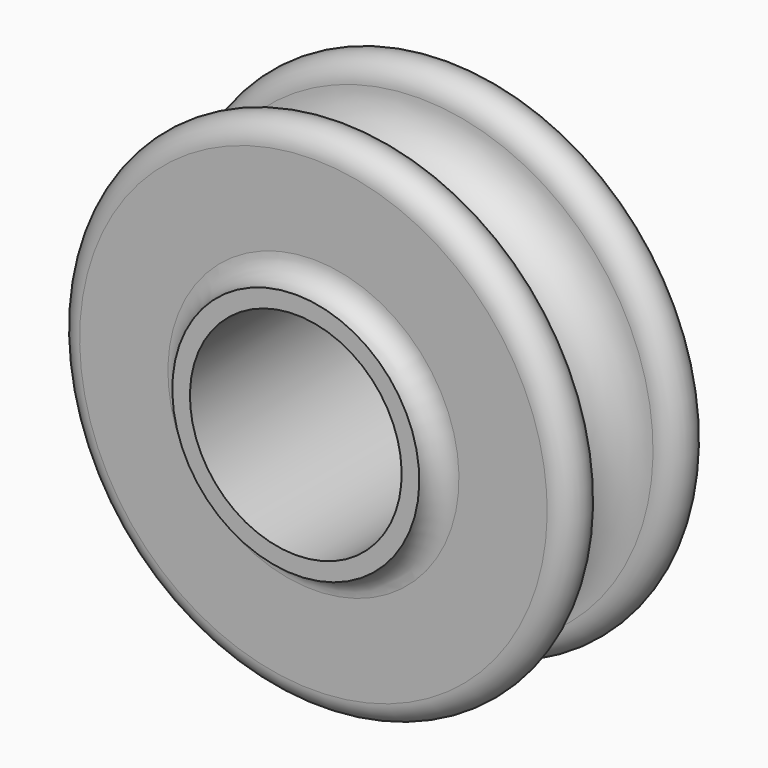
from build123d import *

# Parameters (mm, degrees)
SKETCH001_R  = 12
POCKET_DEPTH = 25.001


with BuildPart() as part:
    # Sketch → Revolution (revolve)
    with BuildSketch(Plane.YZ):
        with BuildLine():
            Line((0, 0), (0, 14))
            ThreePointArc((0, 14), (1.767767, 14.732233), (2.5, 16.5))
            Line((2.5, 16.5), (2.5, 26.5))
            ThreePointArc((7.5, 26.5), (5, 29), (2.5, 26.5))
            ThreePointArc((7.5, 26.5), (12.5, 21.5), (17.5, 26.5))
            ThreePointArc((22.5, 26.5), (20, 29), (17.5, 26.5))
            Line((22.5, 26.5), (22.5, 16.5))
            ThreePointArc((22.5, 16.5), (23.232233, 14.732233), (25, 14))
            Line((25, 14), (25, 0))
            Line((25, 0), (0, 0))
        make_face()
    revolve(axis=Axis((0, 0, 0), (0, 1, 0)))

    # Sketch001 (on Face4 of Revolution) → Pocket (cut, through all)
    with BuildSketch(Plane(origin=(0, 0, 0), x_dir=(0, 0, -1), z_dir=(0, -1, 0))):
        Circle(SKETCH001_R)
    extrude(amount=-POCKET_DEPTH, mode=Mode.SUBTRACT)


solid = part.part
